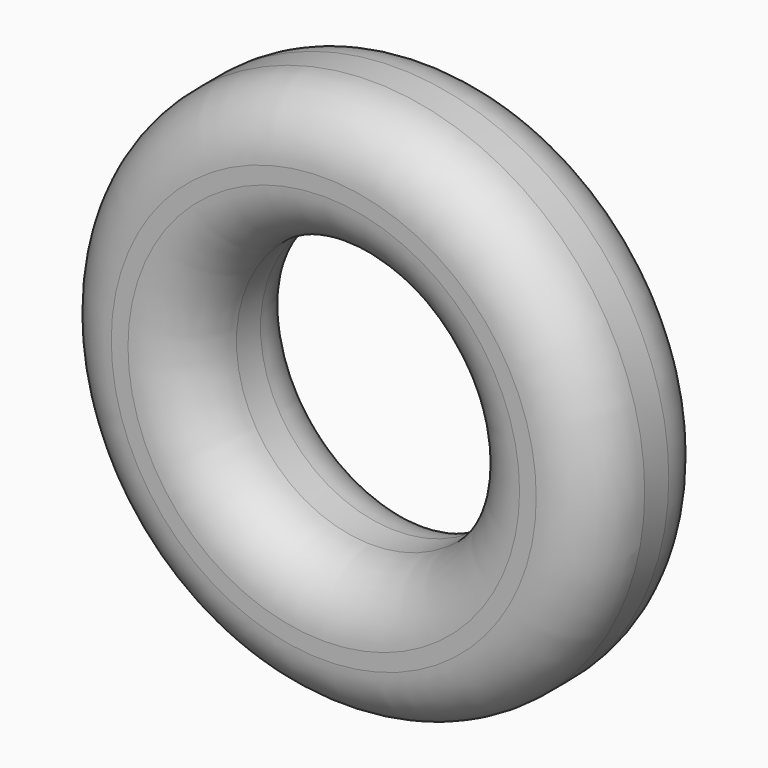
from build123d import *

# Parameters (mm, degrees)
F0_R     = 46.003015
F0_R_2   = 22.865878
F1_DEPTH = 12.7
F2_R     = 10.16


with BuildPart() as f1:
    # F0 (on Front) → F1 (new body, symmetric)
    with BuildSketch(Plane.XZ):
        Circle(F0_R)
        Circle(F0_R_2, mode=Mode.SUBTRACT)
    extrude(amount=F1_DEPTH, both=True)

    # F2
    f2_edges = [f1.edges().sort_by_distance(p)[0] for p in [
        (-46.003015, -12.7, 0),
        (-46.003015, 12.7, 0),
        (-22.865878, -12.7, 0),
        (-22.865878, 12.7, 0),
    ]]
    fillet(f2_edges, radius=F2_R)


solid = f1.part
